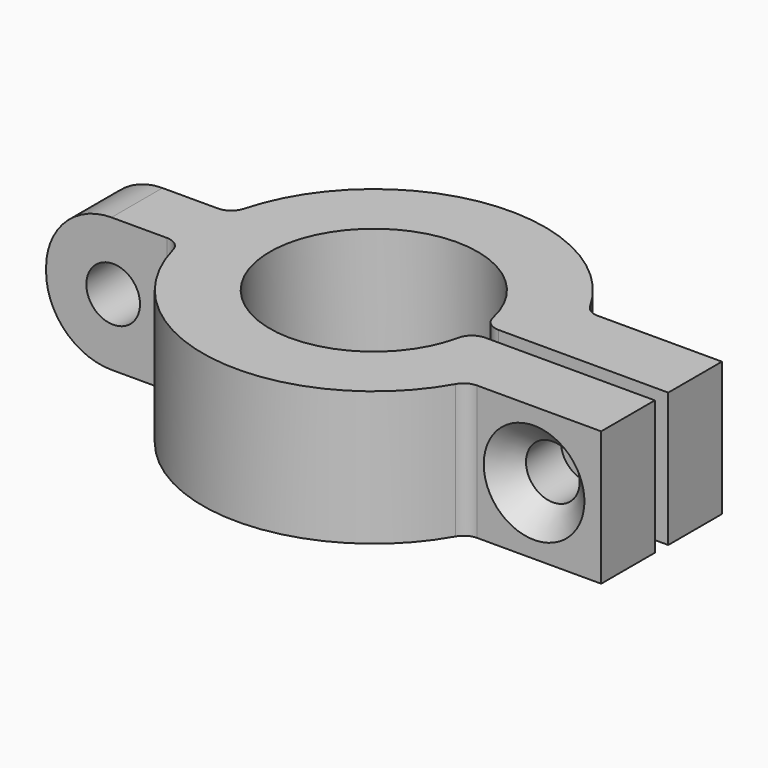
from build123d import *

# Parameters (mm, degrees)
SKETCH_R         = 10.2
PAD_DEPTH        = 8
SKETCH002_W      = 8
SKETCH002_H      = 3.8
PAD001_DEPTH     = 8
SKETCH003_W      = 8
SKETCH003_H      = 9
PAD002_DEPTH     = 8
POCKET_DEPTH     = 8.001
SKETCH005_R      = 1.6
POCKET001_DEPTH  = 12.101
HOLE_D           = 3.2
HOLE_CSINK_D     = 6
HOLE_CSINK_ANGLE = 90
POCKET003_DEPTH  = 2
FILLET_R         = 3.9
FILLET001_R      = 1


with BuildPart() as part:
    # Sketch → Pad (new body)
    with BuildSketch(Plane.XY):
        Circle(SKETCH_R)
    extrude(amount=PAD_DEPTH)

    # Sketch002 → Pad001 (join)
    with BuildSketch(Plane.XY):
        with Locations((-14.021477, 0)):
            Rectangle(SKETCH002_W, SKETCH002_H)
    extrude(amount=PAD001_DEPTH)

    # Sketch003 → Pad002 (join)
    with BuildSketch(Plane.XY):
        with Locations((13.153688, 0)):
            Rectangle(SKETCH003_W, SKETCH003_H)
    extrude(amount=PAD002_DEPTH)

    # Sketch004 (on Face10 of Pad002) → Pocket (cut, through all)
    with BuildSketch(Plane.XY.offset(8)):
        with BuildLine():
            ThreePointArc((6.179806, 0.5), (-6.2, 0), (6.179806, -0.5))
            Line((6.179806, -0.5), (17.153688, -0.5))
            Line((17.153688, -0.5), (17.153688, 0.5))
            Line((6.179806, 0.5), (17.153688, 0.5))
        make_face()
    extrude(amount=-POCKET_DEPTH, mode=Mode.SUBTRACT)

    # Sketch005 (on Face7 of Pocket) → Pocket001 (cut, through all)
    with BuildSketch(Plane.XZ.offset(1.9)):
        with Locations((-14.021477, 4)):
            Circle(SKETCH005_R)
    extrude(amount=-POCKET001_DEPTH, mode=Mode.SUBTRACT)

    # Hole (through all)
    with Locations(Plane.XZ.offset(4.5)):
        with Locations((13.153688, 4)):
            CounterSinkHole(HOLE_D / 2, HOLE_CSINK_D / 2, counter_sink_angle=HOLE_CSINK_ANGLE)

    # Sketch007 → Pocket003 (cut)
    with BuildSketch(Plane(origin=(0, 4.5, 0), x_dir=(-1, 0, 0), z_dir=(0, 1, 0))):
        Polygon((-9.805056, 4), (-11.479372, 6.9), (-14.828004, 6.9), (-16.502319, 4), (-14.828004, 1.1), (-11.479372, 1.1), align=None)
    extrude(amount=-POCKET003_DEPTH, mode=Mode.SUBTRACT)

    # Fillet
    fillet_edges = [part.edges().sort_by_distance(p)[0] for p in [
        (-18.021477, 0, 8),
        (-18.021477, 0, 0),
    ]]
    fillet(fillet_edges, radius=FILLET_R)

    # Fillet001
    fillet001_edges = [part.edges().sort_by_distance(p)[0] for p in [
        (9.153688, 4.5, 4),
        (9.153688, -4.5, 4),
        (-10.021477, -1.9, 4),
        (-10.021477, 1.9, 4),
        (6.179806, -0.5, 4),
        (6.179806, 0.5, 4),
    ]]
    fillet(fillet001_edges, radius=FILLET001_R)


solid = part.part
